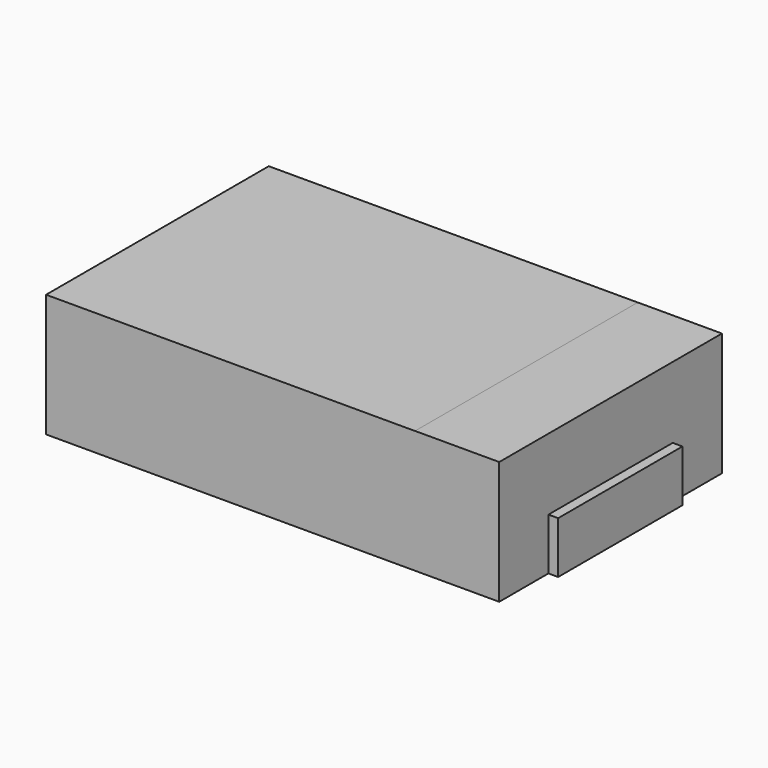
from build123d import *

# Parameters (mm, degrees)
F0_W     = 1.3
F0_H     = 2.4
F1_DEPTH = 0.8
F2_W     = 7
F2_H     = 4.3
F3_DEPTH = 1.9
F4_W     = 1.3
F4_H     = 4.3
F5_DEPTH = 0.001


with BuildPart() as f1:
    # F0 (on Top) → F1 (new body)
    with BuildSketch(Plane.XY):
        with Locations((-3, 0)):
            Rectangle(F0_W, F0_H)
        with Locations((3, 0)):
            Rectangle(F0_W, F0_H)
    extrude(amount=F1_DEPTH)


with BuildPart() as f3:
    # F2 (on Top) → F3 (new body)
    with BuildSketch(Plane.XY):
        Rectangle(F2_W, F2_H)
    extrude(amount=F3_DEPTH)


with BuildPart() as f5:
    # F4 (on face) → F5 (new body)
    with BuildSketch(Plane.XY.offset(1.9)):
        with Locations((2.85, 0)):
            Rectangle(F4_W, F4_H)
    extrude(amount=F5_DEPTH)


solid = Compound([f1.part, f3.part, f5.part])
